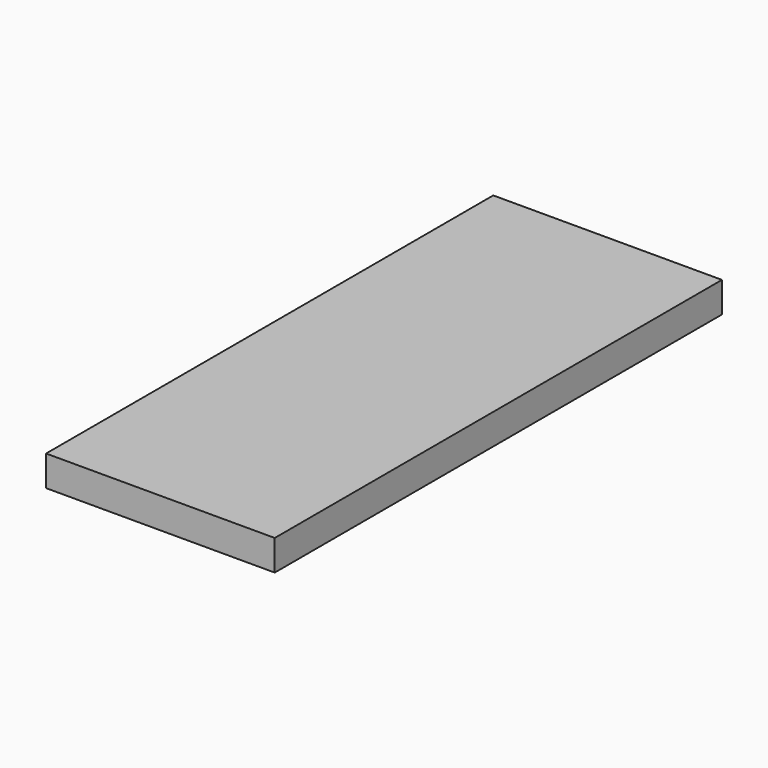
from build123d import *

# Parameters (mm, degrees)
SKETCH_W  = 22.5
SKETCH_H  = 55
PAD_DEPTH = 3


with BuildPart() as part:
    # Sketch → Pad (new body)
    with BuildSketch(Plane.XY):
        Rectangle(SKETCH_W, SKETCH_H)
    extrude(amount=PAD_DEPTH)


solid = part.part
